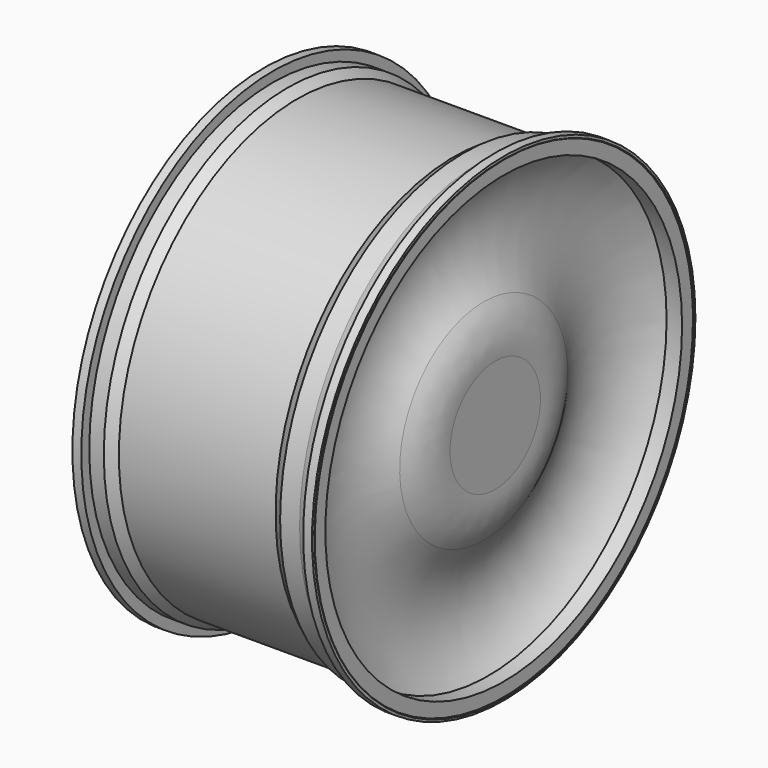
from build123d import *


with BuildPart() as part:
    # Sketch → Revolution (revolve)
    with BuildSketch(Plane.XY):
        Polygon((-28.515713, 196), (28.515713, 196), (65.398537, 196), (73.283608, 201), (108, 201), (108, 216), (100, 216), (100, 207), (72.030521, 207), (63.161045, 201.026306), (-29.824583, 201.026306), (-78.099873, 201.026306), (-86.908587, 207), (-100, 207), (-100, 216), (-108, 216), (-108, 201), (-99.298126, 201), (-89.018097, 201), (-80.451416, 196), align=None)
    revolve(axis=Axis((0, 0, 0), (1, 0, 0)))

    # Sketch001 → Revolution001 (revolve)
    with BuildSketch(Plane.XZ):
        with BuildLine():
            Line((0, 0), (100.38707, 0))
            Line((100.38707, 0), (100.38707, 50.972863))
            ThreePointArc((100.38707, 50.972863), (98.816025, 73.680404), (89.94216, 94.641203))
            ThreePointArc((108.836403, 213.905151), (73.659034, 158.34946), (89.94216, 94.641203))
            Line((108.836403, 213.905151), (62.693928, 197.37645))
            Line((62.693928, 197.37645), (29.636631, 197.37645))
            ThreePointArc((29.636631, 197.37645), (34.494433, 122.49617), (51.28, 49.36))
            Line((51.28, 49.36), (0, 49.36))
            Line((0, 49.36), (0, 0))
        make_face()
    revolve(axis=Axis((0, 0, 0), (1, 0, 0)))


solid = part.part
